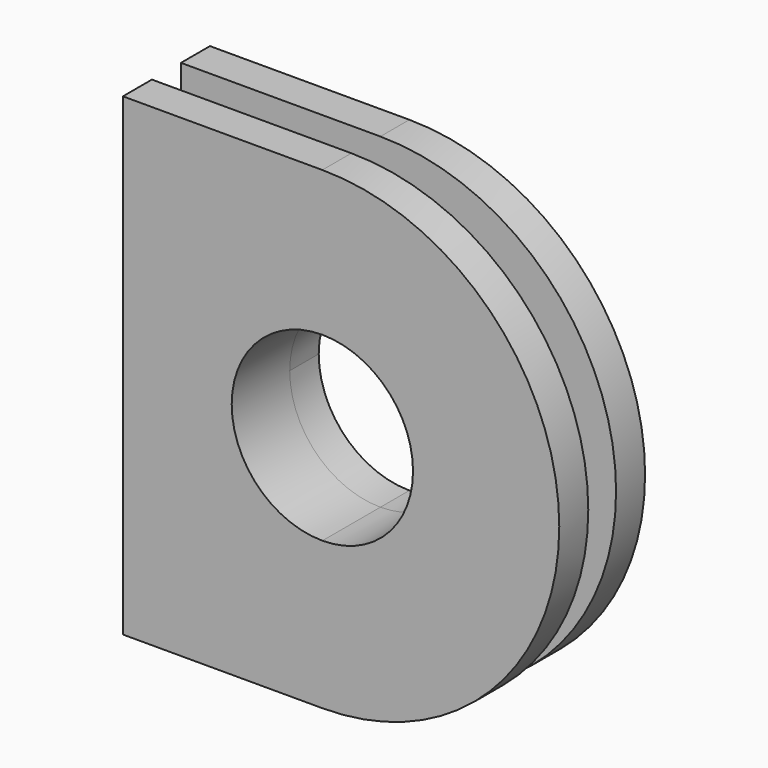
from build123d import *

# Parameters (mm, degrees)
F1_DEPTH = 1
F3_DEPTH = 1
F5_DEPTH = 1


with BuildPart() as f1:
    # F0 (on Front) → F1 (new body)
    with BuildSketch(Plane.XZ):
        with BuildLine():
            ThreePointArc((0, 2.5), (1.767767, 1.767767), (2.5, 0))
            ThreePointArc((2.5, 0), (1.767767, -1.767767), (0, -2.5))
            Line((0, -2.5), (0, -4.5))
            ThreePointArc((0, -4.5), (4.5, 0), (0, 4.5))
            Line((0, 4.5), (0, 2.5))
        make_face()
        with BuildLine():
            ThreePointArc((0, -2.5), (-2.5, 0), (0, 2.5))
            Line((0, 2.5), (0, 4.5))
            Line((0, 4.5), (-5.5, 4.5))
            Line((-5.5, 4.5), (-5.5, -4.5))
            Line((-5.5, -4.5), (0, -4.5))
            Line((0, -4.5), (0, -2.5))
        make_face()
    extrude(amount=F1_DEPTH)

    # F2 (on face) → F3 (join)
    with BuildSketch(Plane.XZ.offset(1)):
        with BuildLine():
            Line((0, 2.5), (0, 6.5))
            Line((0, 6.5), (-5.5, 6.5))
            Line((-5.5, 6.5), (-5.5, -6.566851))
            Line((-5.5, -6.566851), (0, -6.566851))
            Line((0, -6.566851), (0, -2.5))
            ThreePointArc((0, -2.5), (-2.5, 0), (0, 2.5))
        make_face()
        with BuildLine():
            ThreePointArc((0, -6.566851), (6.533425, -0.033425), (0, 6.5))
            Line((0, 6.5), (0, 2.5))
            ThreePointArc((0, 2.5), (1.767767, 1.767767), (2.5, 0))
            ThreePointArc((2.5, 0), (1.767767, -1.767767), (0, -2.5))
            Line((0, -2.5), (0, -6.566851))
        make_face()
    extrude(amount=F3_DEPTH)

    # F4 (on face) → F5 (join)
    with BuildSketch(Plane(origin=(0, 0, 0), x_dir=(-1, 0, 0), z_dir=(0, 1, 0))):
        with BuildLine():
            ThreePointArc((0, 2.5), (1.767767, 1.767767), (2.5, 0))
            ThreePointArc((2.5, 0), (1.767767, -1.767767), (0, -2.5))
            Line((0, -2.5), (0, -6.5))
            Line((0, -6.5), (5.5, -6.5))
            Line((5.5, -6.5), (5.5, 6.5))
            Line((5.5, 6.5), (0, 6.5))
            Line((0, 6.5), (0, 2.5))
        make_face()
        with BuildLine():
            ThreePointArc((0, -2.5), (-2.5, 0), (0, 2.5))
            Line((0, 2.5), (0, 6.5))
            ThreePointArc((0, 6.5), (-6.5, 0), (0, -6.5))
            Line((0, -6.5), (0, -2.5))
        make_face()
    extrude(amount=F5_DEPTH)


solid = f1.part
